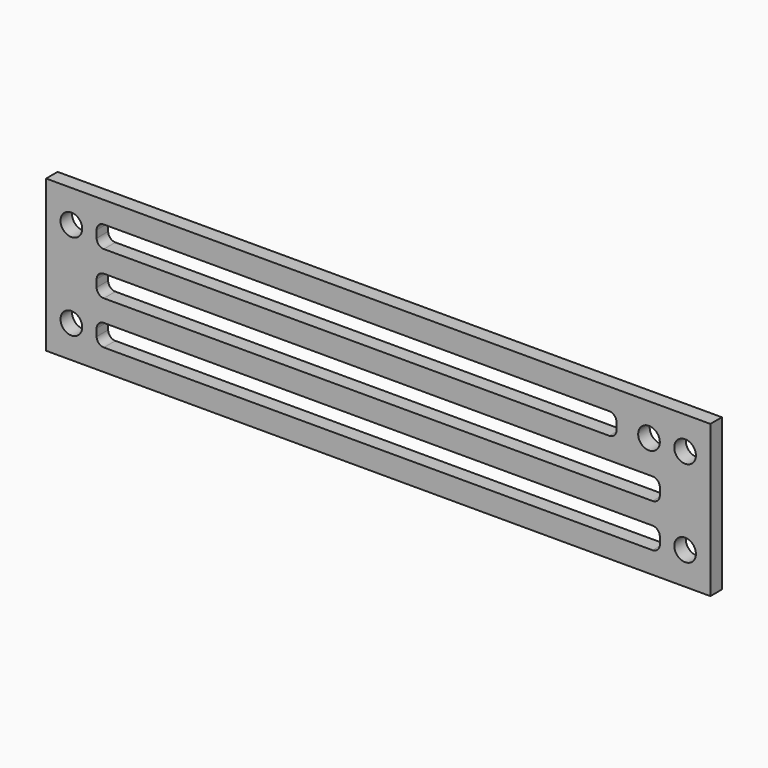
from build123d import *

# Parameters (mm, degrees)
F0_W      = 84
F0_H      = 21
F0_W_2    = 78
F0_H_2    = 3
F0_W_3    = 72
F0_R      = 1.5
F1_DEPTH  = 2
F2_W      = 2
F2_H      = 21
F3_DEPTH  = 5
F4_W      = 2
F4_H      = 21
F5_DEPTH  = 5
F6_R      = 1.5
F7_DEPTH  = 25
F8_R      = 1
F9_W      = 1
F9_H      = 21
F10_DEPTH = 25


with BuildPart() as f1:
    # F0 (on Front) → F1 (new body)
    with BuildSketch(Plane.XZ):
        Rectangle(F0_W, F0_H)
        with Locations((0, -6)):
            Rectangle(F0_W_2, F0_H_2, mode=Mode.SUBTRACT)
        with Locations((-3, 6)):
            Rectangle(F0_W_3, F0_H_2, mode=Mode.SUBTRACT)
        Rectangle(F0_W_2, F0_H_2, mode=Mode.SUBTRACT)
        with Locations((37.5, 6)):
            Circle(F0_R, mode=Mode.SUBTRACT)
    extrude(amount=F1_DEPTH)

    # F2 (on face) → F3 (join)
    with BuildSketch(Plane.YZ.offset(42)):
        with Locations((-1, 0)):
            Rectangle(F2_W, F2_H)
    extrude(amount=F3_DEPTH)

    # F4 (on face) → F5 (join)
    with BuildSketch(Plane(origin=(-42, 0, 0), x_dir=(0, -1, 0), z_dir=(-1, 0, 0))):
        with Locations((1, 0)):
            Rectangle(F4_W, F4_H)
    extrude(amount=F5_DEPTH)

    # F6 (on face) → F7 (cut)
    with BuildSketch(Plane.XZ.offset(2)):
        with Locations((-42.5, 6)):
            Circle(F6_R)
        with Locations((-42.5, -6)):
            Circle(F6_R)
        with Locations((42.5, 6)):
            Circle(F6_R)
        with Locations((42.5, -6)):
            Circle(F6_R)
    extrude(amount=-F7_DEPTH, mode=Mode.SUBTRACT)

    # F8
    f8_edges = [f1.edges().sort_by_distance(p)[0] for p in [
        (-39, -1, 7.5),
        (-39, -1, 1.5),
        (-39, -1, -4.5),
        (-39, -1, 4.5),
        (-39, -1, -1.5),
        (-39, -1, -7.5),
        (33, -1, 7.5),
        (39, -1, 1.5),
        (39, -1, -4.5),
        (39, -1, -7.5),
        (39, -1, -1.5),
        (33, -1, 4.5),
    ]]
    fillet(f8_edges, radius=F8_R)

    # F9 (on face) → F10 (cut)
    with BuildSketch(Plane.XZ.offset(2)):
        with Locations((-46.5, 0)):
            Rectangle(F9_W, F9_H)
        with Locations((46.5, 0)):
            Rectangle(F9_W, F9_H)
    extrude(amount=-F10_DEPTH, mode=Mode.SUBTRACT)


solid = f1.part
